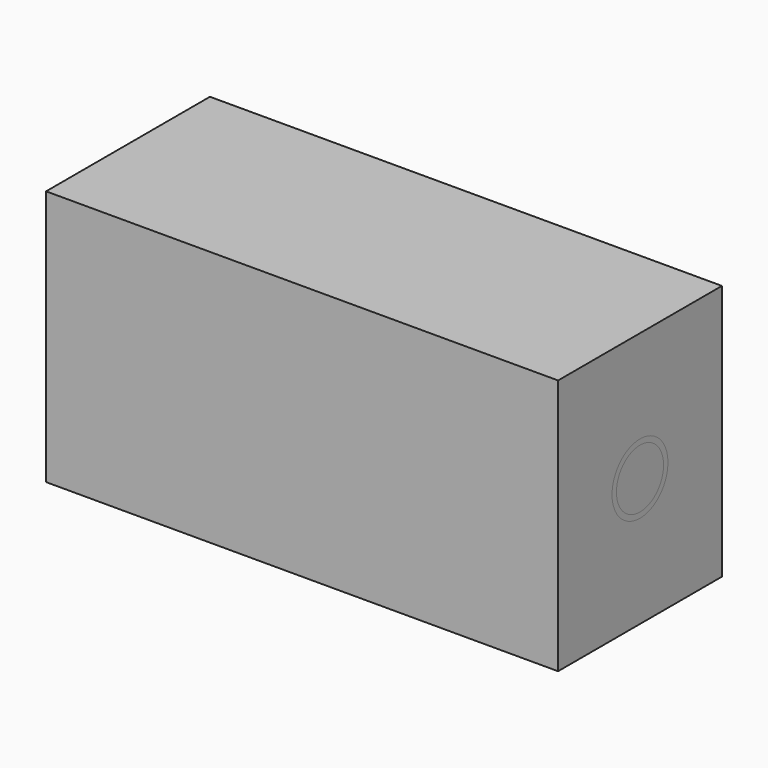
from build123d import *

# Parameters (mm, degrees)
F0_W     = 2000
F0_H     = 21.4
F0_H_2   = 115.1
F0_H_3   = 263.5
F2_DEPTH = 500


with BuildPart() as f1:
    # F0 (on Top) → F1 (revolve)
    with BuildSketch(Plane.XY):
        with Locations((-1000, 10.7)):
            Rectangle(F0_W, F0_H)
        with Locations((-1000, 10.7)):
            Rectangle(F0_W, F0_H)
        with Locations((-1000, 10.7)):
            Rectangle(F0_W, F0_H)
        with Locations((-1000, 78.95)):
            Rectangle(F0_W, F0_H_2)
        with Locations((-1000, 78.95)):
            Rectangle(F0_W, F0_H_2)
        with Locations((-1000, 78.95)):
            Rectangle(F0_W, F0_H_2)
    revolve(axis=Axis((-1000, 136.5, 0), (1, 0, 0)))


with BuildPart() as f2:
    # F0 (on Top) → F2 (new body, symmetric)
    with BuildSketch(Plane.XY):
        Polygon((-2000, 136.5), (0, 136.5), (0, 300), (0, 536.5), (-2000, 536.5), align=None)
        with Locations((-1000, -131.75)):
            Rectangle(F0_W, F0_H_3)
        with Locations((-1000, 78.95)):
            Rectangle(F0_W, F0_H_2)
        with Locations((-1000, 10.7)):
            Rectangle(F0_W, F0_H)
    extrude(amount=F2_DEPTH, both=True)

    # F3: cut F1
    add(f1.part, mode=Mode.SUBTRACT)


with BuildPart() as f4:
    # F0 (on Top) → F4 (revolve)
    with BuildSketch(Plane.XY):
        with Locations((-1000, 10.7)):
            Rectangle(F0_W, F0_H)
        with Locations((-1000, 10.7)):
            Rectangle(F0_W, F0_H)
    revolve(axis=Axis((-1000, 136.5, 0), (1, 0, 0)))


with BuildPart() as f5:
    # F0 (on Top) → F5 (revolve)
    with BuildSketch(Plane.XY):
        with Locations((-1000, 10.7)):
            Rectangle(F0_W, F0_H)
    revolve(axis=Axis((-1000, 136.5, 0), (1, 0, 0)))


solid = Compound([f1.part, f2.part, f4.part, f5.part])
